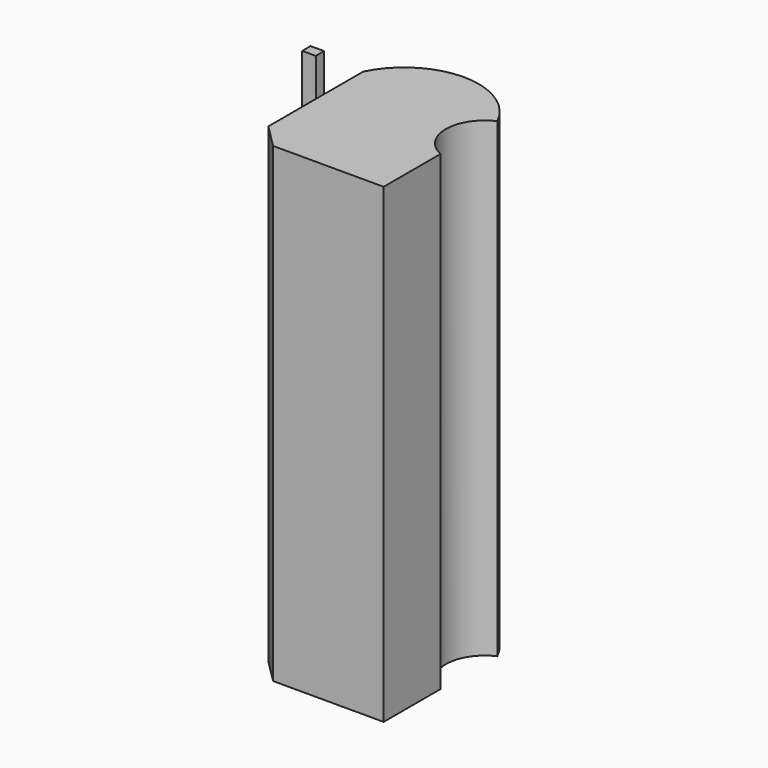
from build123d import *

# Parameters (mm, degrees)
F0_W     = 0.731864
F0_H     = 0.55966
F0_W_2   = 4.692542
F0_H_2   = 2.54
F1_DEPTH = 25.4
F2_SIZE  = 1.27


with BuildPart() as f1:
    # F0 (on Top) → F1 (new body)
    with BuildSketch(Plane.XY):
        with Locations((-10.505009, 10.218949)):
            Rectangle(F0_W, F0_H)
        with BuildLine():
            ThreePointArc((-0.452636, 10.068271), (-4.068907, 12.325606), (-7.685178, 10.068271))
            Line((-7.685178, 10.068271), (-0.452636, 10.068271))
        make_face()
        with BuildLine():
            Line((-0.452636, 10.068271), (-7.685178, 10.068271))
            Line((-7.685178, 10.068271), (-7.685178, 4.94522))
            Line((-7.685178, 4.94522), (-2.992636, 4.94522))
            Line((-2.992636, 4.94522), (-2.992636, 2.40522))
            Line((-2.992636, 2.40522), (-0.452636, 2.40522))
            Line((-0.452636, 2.40522), (-0.452636, 6.236746))
            ThreePointArc((-0.452636, 6.236746), (-1.697232, 8.152509), (-0.452636, 10.068271))
        make_face()
        with Locations((-5.338907, 3.67522)):
            Rectangle(F0_W_2, F0_H_2)
        with BuildLine():
            Line((-0.452636, 10.068271), (-7.685178, 10.068271))
            Line((-7.685178, 10.068271), (-7.685178, 4.94522))
            Line((-7.685178, 4.94522), (-2.992636, 4.94522))
            Line((-2.992636, 4.94522), (-2.992636, 2.40522))
            Line((-2.992636, 2.40522), (-0.452636, 2.40522))
            Line((-0.452636, 2.40522), (-0.452636, 6.236746))
            ThreePointArc((-0.452636, 6.236746), (-1.697232, 8.152509), (-0.452636, 10.068271))
        make_face()
    extrude(amount=F1_DEPTH)

    # F2
    f2_edges = [f1.edges().sort_by_distance(p)[0] for p in [
        (-7.685178, 2.40522, 12.7),
    ]]
    chamfer(f2_edges, length=F2_SIZE)


solid = f1.part
